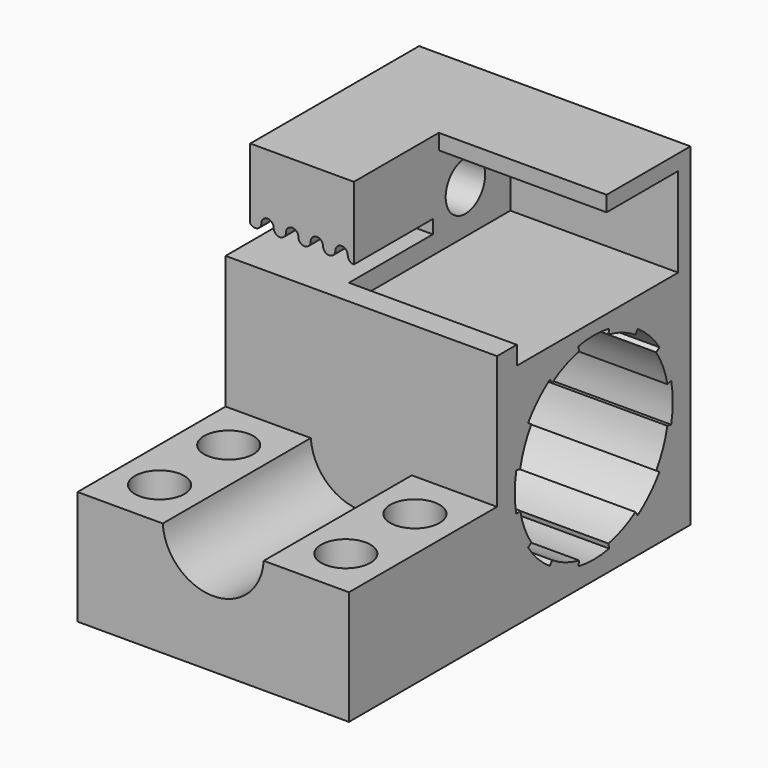
from build123d import *

# Parameters (mm, degrees)
PAD015_DEPTH       = 15
SKETCH034_R        = 2
POCKET016_DEPTH    = 9.501
SKETCH_W           = 19.6
SKETCH_H           = 18.5
SKETCH_R           = 7.6
PAD_DEPTH          = 22
SKETCH002_W        = 17.1
SKETCH002_H        = 8.4
PAD001_DEPTH       = 8.5
POCKET_DEPTH       = 8
PAD002_DEPTH       = 13.6
SKETCH005_R        = 2
POCKET001_DEPTH    = 22.001
POCKET002_DEPTH    = 101.929968
POLARPATTERN_COUNT = 8
PAD004_DEPTH       = 1.5
SKETCH041_R        = 1.3
POCKET020_DEPTH    = 5


with BuildPart() as body026:
    # Sketch033 (on DatumPlane) → Pad015 (new body)
    with BuildSketch(Plane(origin=(0, -9.8, 0), x_dir=(0, 0, 1), z_dir=(0, -1, 0))):
        with BuildLine():
            Line((-9.5, 0), (-0.25, 0))
            Line((-0.25, 0), (-0.25, 6.907629))
            ThreePointArc((-0.25, 15.092371), (-4.1, 11), (-0.25, 6.907629))
            Line((-0.25, 15.092371), (-0.25, 22))
            Line((-0.25, 22), (-9.5, 22))
            Line((-9.5, 22), (-9.5, 0))
        make_face()
    extrude(amount=PAD015_DEPTH)

    # Sketch034 → Pocket016 (cut, through all)
    with BuildSketch(Plane.XY):
        with Locations((-18.546185, -13.8)):
            Circle(SKETCH034_R)
        with Locations((-3.453815, -13.8)):
            Circle(SKETCH034_R)
        with Locations((-3.453815, -20.8)):
            Circle(SKETCH034_R)
        with Locations((-18.546185, -20.8)):
            Circle(SKETCH034_R)
    extrude(amount=-POCKET016_DEPTH, mode=Mode.SUBTRACT)


with BuildPart() as printable_axisholder_y_fusion:
    # Sketch → Pad (new body)
    with BuildSketch(Plane.YZ):
        with Locations((0, -0.25)):
            Rectangle(SKETCH_W, SKETCH_H)
        Circle(SKETCH_R, mode=Mode.SUBTRACT)
    extrude(amount=-PAD_DEPTH)

    # Sketch002 → Pad001 (join)
    with BuildSketch(Plane(origin=(0, 0, 9), x_dir=(0, -1, 0), z_dir=(0, 0, 1))):
        with Locations((-1.25, -17.8)):
            Rectangle(SKETCH002_W, SKETCH002_H)
    extrude(amount=PAD001_DEPTH)

    # Sketch003 → Pocket (cut)
    with BuildSketch(Plane(origin=(0, -7.3, 0), x_dir=(0, 0, -1), z_dir=(0, -1, 0))):
        with BuildLine():
            Line((-10.5, -22), (-10.5, -13.6))
            Line((-10.5, -13.6), (-11.6, -13.6))
            ThreePointArc((-12.1, -14.1), (-11.746447, -13.953553), (-11.6, -13.6))
            ThreePointArc((-12.1, -14.1), (-12.6, -14.6), (-12.1, -15.1))
            ThreePointArc((-12.1, -16.1), (-11.6, -15.6), (-12.1, -15.1))
            ThreePointArc((-12.1, -16.1), (-12.6, -16.6), (-12.1, -17.1))
            ThreePointArc((-12.1, -18.1), (-11.6, -17.6), (-12.1, -17.1))
            ThreePointArc((-12.1, -18.1), (-12.6, -18.6), (-12.1, -19.1))
            ThreePointArc((-12.1, -20.1), (-11.6, -19.6), (-12.1, -19.1))
            ThreePointArc((-12.1, -20.1), (-12.6, -20.6), (-12.1, -21.1))
            ThreePointArc((-11.8, -22), (-11.625658, -21.441886), (-12.1, -21.1))
            Line((-11.8, -22), (-10.5, -22))
        make_face()
    extrude(amount=-POCKET_DEPTH, mode=Mode.SUBTRACT)

    # Sketch004 (on DatumPlane) → Pad002 (join)
    with BuildSketch(Plane.YZ):
        Polygon((9.8, 17.5), (1.3, 17.5), (1.3, 16.25), (8.55, 16.25), (8.55, 9), (9.8, 9), align=None)
    extrude(amount=-PAD002_DEPTH)

    # Sketch005 (on DatumPlane) → Pocket001 (cut, through all)
    with BuildSketch(Plane.YZ):
        with Locations((4, 12.625)):
            Circle(SKETCH005_R)
    extrude(amount=-POCKET001_DEPTH, mode=Mode.SUBTRACT)

    # Sketch006 (on DatumPlane) → Pocket002 (cut, through all)
    with BuildSketch(Plane.YZ):
        with BuildLine():
            ThreePointArc((-7.846282, 1.560723), (-8, 0), (-7.846282, -1.560723))
            Line((-6.708571, -1.334418), (-7.846282, -1.560723))
            ThreePointArc((-6.708571, 1.334418), (-6.84, 0), (-6.708571, -1.334418))
            Line((-6.708571, 1.334418), (-7.846282, 1.560723))
        make_face()
    pocket002 = extrude(amount=-POCKET002_DEPTH, mode=Mode.SUBTRACT)

    # PolarPattern: Pocket002 ×8 about axis
    polarpattern_axis = Axis((0, 0, 0), (1, 0, 0))
    for i in range(1, POLARPATTERN_COUNT):
        add(pocket002.rotate(polarpattern_axis, i * 360 / POLARPATTERN_COUNT), mode=Mode.SUBTRACT)

    # Sketch010 (on DatumPlane) → Pad004 (join)
    with BuildSketch(Plane.XY.offset(9)):
        Polygon((0, -7.8), (-13.6, -7.8), (-13.6, -7.3), (-22, -7.3), (-22, -9.8), (0, -9.8), align=None)
    extrude(amount=PAD004_DEPTH)

    # Sketch041 → Pocket020 (cut)
    with BuildSketch(Plane.XY.offset(-9.5)):
        with Locations((-11, 0)):
            Circle(SKETCH041_R)
    extrude(amount=POCKET020_DEPTH, mode=Mode.SUBTRACT)

    # Fusion001: union Body026
    add(body026.part)


solid = printable_axisholder_y_fusion.part
